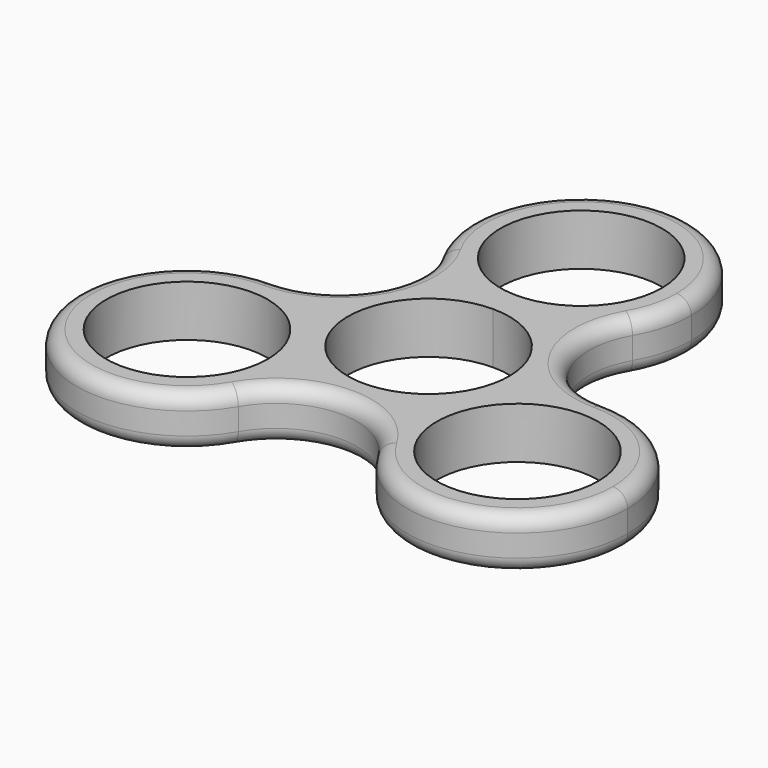
from build123d import *

# Parameters (mm, degrees)
F0_R     = 11
F1_DEPTH = 7
F2_R     = 2


with BuildPart() as f1:
    # F0 (on Top) → F1 (new body)
    with BuildSketch(Plane.XY):
        with BuildLine():
            ThreePointArc((0, 11), (7.778175, 7.778175), (11, 0))
            ThreePointArc((11, 0), (10.625184, -2.84701), (9.526279, -5.5))
            ThreePointArc((9.526279, -5.5), (15.01666, -0.009619), (22.51666, 2))
            ThreePointArc((22.51666, 2), (12.990381, 7.5), (12.990381, 18.5))
            ThreePointArc((12.990381, 18.5), (7.5, 13.009619), (0, 11))
        make_face()
        with BuildLine():
            ThreePointArc((-9.52628, -5.5), (-9.526279, 5.5), (0, 11))
            ThreePointArc((0, 11), (-7.5, 13.009619), (-12.990381, 18.5))
            ThreePointArc((-12.990381, 18.5), (-12.990381, 7.5), (-22.51666, 2))
            ThreePointArc((-22.51666, 2), (-15.016661, -0.009619), (-9.52628, -5.5))
        make_face()
        with BuildLine():
            ThreePointArc((-12.990381, 18.5), (-7.5, 13.009619), (0, 11))
            ThreePointArc((0, 11), (7.5, 13.009619), (12.990381, 18.5))
            ThreePointArc((12.990381, 18.5), (14.488887, 22.117714), (15, 26))
            ThreePointArc((15, 26), (-3.882286, 40.488887), (-12.990381, 18.5))
        make_face()
        with Locations((0, 26)):
            Circle(F0_R, mode=Mode.SUBTRACT)
        with BuildLine():
            ThreePointArc((9.526279, -20.5), (7.51666, -13), (9.526279, -5.5))
            ThreePointArc((9.526279, -5.5), (0, -11), (-9.52628, -5.5))
            ThreePointArc((-9.52628, -5.5), (-8.027773, -9.117714), (-7.51666, -13))
            ThreePointArc((-7.51666, -13), (-8.027773, -16.882286), (-9.526279, -20.5))
            ThreePointArc((-9.526279, -20.5), (0, -15), (9.526279, -20.5))
        make_face()
        with BuildLine():
            ThreePointArc((22.51666, 2), (15.01666, -0.009619), (9.526279, -5.5))
            ThreePointArc((9.526279, -5.5), (7.51666, -13), (9.526279, -20.5))
            ThreePointArc((9.526279, -20.5), (26.398946, -27.488887), (37.51666, -13))
            ThreePointArc((37.51666, -13), (33.123262, -2.393398), (22.51666, 2))
        make_face()
        with Locations((22.51666, -13)):
            Circle(F0_R, mode=Mode.SUBTRACT)
        with BuildLine():
            ThreePointArc((-7.51666, -13), (-8.027773, -9.117714), (-9.52628, -5.5))
            ThreePointArc((-9.52628, -5.5), (-15.016661, -0.009619), (-22.51666, 2))
            ThreePointArc((-22.51666, 2), (-35.507042, -20.5), (-9.526279, -20.5))
            ThreePointArc((-9.526279, -20.5), (-8.027773, -16.882286), (-7.51666, -13))
        make_face()
        with Locations((-22.51666, -13)):
            Circle(F0_R, mode=Mode.SUBTRACT)
    extrude(amount=F1_DEPTH)

    # F2
    f2_edges = [f1.edges().sort_by_distance(p)[0] for p in [
        (-9.526279, -20.5, 3.5),
        (-35.507042, -20.5, 7),
        (-22.51666, 2, 3.5),
        (-35.507042, -20.5, 0),
    ]]
    fillet(f2_edges, radius=F2_R)


solid = f1.part
